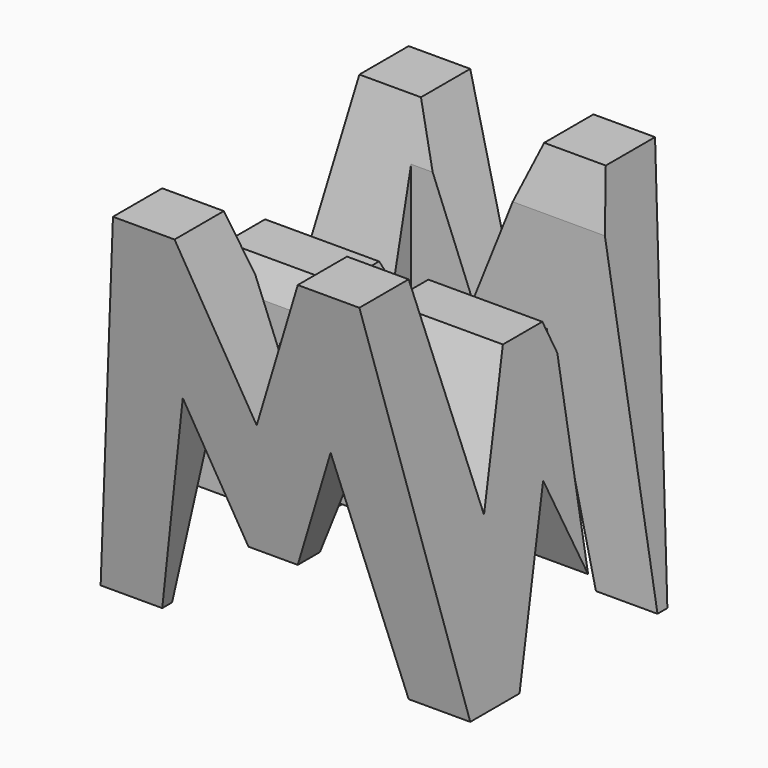
from build123d import *

# Parameters (mm, degrees)
F0_W      = 38.1
F0_H      = 38.1
F6_DEPTH  = 38.1
F7_DEPTH  = 38.1
F8_DEPTH  = 38.1
F9_W      = 25.4
F9_H      = 7.62
F10_DEPTH = 38.1


with BuildPart() as f6:
    # F0 (on Front) → F6 (new body)
    with BuildSketch(Plane.XZ):
        with Locations((19.05, 19.05)):
            Rectangle(F0_W, F0_H)
    extrude(amount=F6_DEPTH)

    # F4 (on offset) → F7 (cut)
    with BuildSketch(Plane.YZ.offset(38.1)):
        Polygon((-31.75, 0), (-38.1, 38.1), (-38.1, 0), align=None)
        Polygon((-6.35, 38.1), (-31.75, 38.1), (-26.67, 15.875), (-21.59, 28.575), (-16.51, 28.575), (-11.43, 15.875), align=None)
        Polygon((-19.05, 15.875), (-25.4, 0), (-12.7, 0), align=None)
        Polygon((0, 0), (0, 38.1), (-6.35, 0), align=None)
    extrude(amount=-F7_DEPTH, mode=Mode.SUBTRACT)

    # F5 (on offset) → F8 (cut)
    with BuildSketch(Plane.XZ.offset(38.1)):
        Polygon((0, 38.1), (0, 0), (6.35, 38.1), align=None)
        Polygon((25.4, 38.1), (12.7, 38.1), (19.05, 22.225), align=None)
        Polygon((31.75, 38.1), (38.1, 0), (38.1, 38.1), align=None)
        Polygon((11.43, 22.225), (6.35, 0), (31.75, 0), (26.67, 22.225), (21.59, 9.525), (16.51, 9.525), align=None)
    extrude(amount=-F8_DEPTH, mode=Mode.SUBTRACT)

    # F9 (on offset) → F10 (cut)
    with BuildSketch(Plane.XY.offset(38.1)):
        with Locations((25.4, -11.43)):
            Rectangle(F9_W, F9_H)
        with Locations((12.7, -26.67)):
            Rectangle(F9_W, F9_H)
    extrude(amount=-F10_DEPTH, mode=Mode.SUBTRACT)


solid = f6.part
